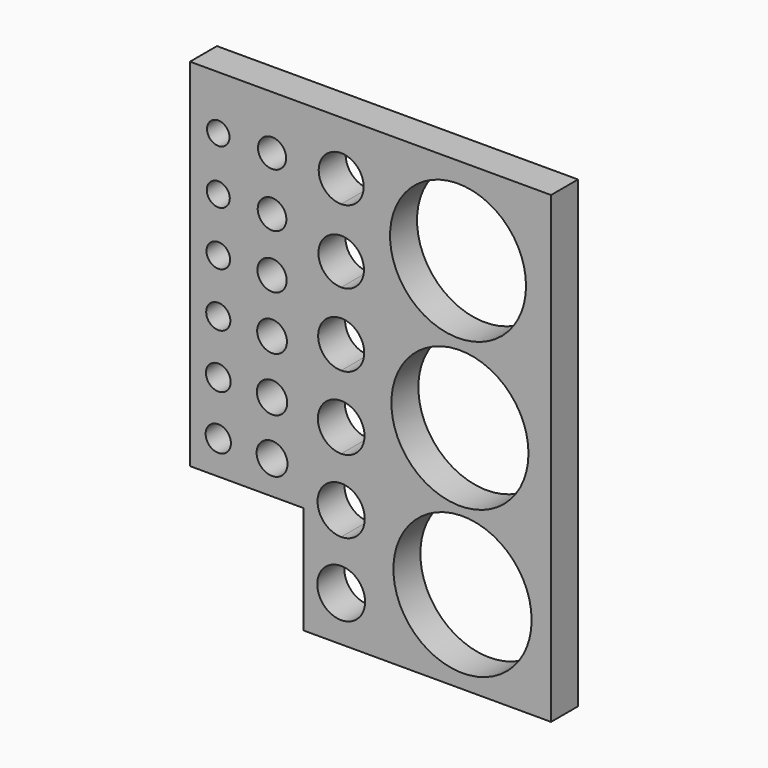
from build123d import *

# Parameters (mm, degrees)
F0_R     = 2.25
F0_R_2   = 2.75
F0_R_3   = 2.2
F0_R_4   = 2.7
F0_R_5   = 12.3
F0_R_6   = 12.2
F0_R_7   = 2.15
F0_R_8   = 2.65
F0_R_9   = 2.1
F0_R_10  = 2.6
F0_R_11  = 2.05
F0_R_12  = 2.55
F0_R_13  = 2
F0_R_14  = 2.5
F0_R_15  = 12.1
F1_DEPTH = 6


with BuildPart() as f1:
    # F0 (on Front) → F1 (new body)
    with BuildSketch(Plane.XZ):
        Polygon((4.545036, 0), (0, 0), (-54.685275, 0), (-59.722289, 0), (-59.722289, -63.376926), (-39.553031, -63.376926), (-39.553031, -82.555786), (4.545036, -82.555786), align=None)
        with BuildLine():
            ThreePointArc((-28.561165, -74.508687), (-35.816369, -77.513891), (-32.811165, -70.258687))
            ThreePointArc((-32.811165, -70.258687), (-29.805961, -71.503483), (-28.561165, -74.508687))
        make_face(mode=Mode.SUBTRACT)
        with Locations((-54.685275, -57.419539)):
            Circle(F0_R, mode=Mode.SUBTRACT)
        with Locations((-45.115352, -57.419539)):
            Circle(F0_R_2, mode=Mode.SUBTRACT)
        with Locations((-54.685275, -47.849615)):
            Circle(F0_R_3, mode=Mode.SUBTRACT)
        with Locations((-45.115352, -47.849615)):
            Circle(F0_R_4, mode=Mode.SUBTRACT)
        with BuildLine():
            ThreePointArc((-32.811165, -65.720934), (-37.011165, -61.520934), (-32.811165, -57.320934))
            ThreePointArc((-32.811165, -57.320934), (-29.841316, -58.551086), (-28.611165, -61.520934))
            ThreePointArc((-28.611165, -61.520934), (-29.841316, -64.490783), (-32.811165, -65.720934))
        make_face(mode=Mode.SUBTRACT)
        with BuildLine():
            ThreePointArc((-32.811165, -52.683181), (-36.961165, -48.533181), (-32.811165, -44.383181))
            ThreePointArc((-32.811165, -44.383181), (-29.876672, -45.598688), (-28.661165, -48.533181))
            ThreePointArc((-28.661165, -48.533181), (-29.876672, -51.467675), (-32.811165, -52.683181))
        make_face(mode=Mode.SUBTRACT)
        with Locations((-11.215762, -67.734145)):
            Circle(F0_R_5, mode=Mode.SUBTRACT)
        with Locations((-11.673733, -41.788895)):
            Circle(F0_R_6, mode=Mode.SUBTRACT)
        with Locations((-54.685275, -38.279692)):
            Circle(F0_R_7, mode=Mode.SUBTRACT)
        with Locations((-45.115352, -38.279692)):
            Circle(F0_R_8, mode=Mode.SUBTRACT)
        with Locations((-54.685275, -28.709769)):
            Circle(F0_R_9, mode=Mode.SUBTRACT)
        with Locations((-45.115352, -28.709769)):
            Circle(F0_R_10, mode=Mode.SUBTRACT)
        with BuildLine():
            ThreePointArc((-32.811165, -39.645429), (-36.911165, -35.545429), (-32.811165, -31.445429))
            ThreePointArc((-32.811165, -31.445429), (-29.912027, -32.646291), (-28.711165, -35.545429))
            ThreePointArc((-28.711165, -35.545429), (-29.912027, -38.444566), (-32.811165, -39.645429))
        make_face(mode=Mode.SUBTRACT)
        with BuildLine():
            ThreePointArc((-32.811165, -26.607676), (-36.861165, -22.557676), (-32.811165, -18.507676))
            ThreePointArc((-32.811165, -18.507676), (-29.947382, -19.693893), (-28.761165, -22.557676))
            ThreePointArc((-28.761165, -22.557676), (-29.947382, -25.421458), (-32.811165, -26.607676))
        make_face(mode=Mode.SUBTRACT)
        with Locations((-54.685275, -19.139846)):
            Circle(F0_R_11, mode=Mode.SUBTRACT)
        with Locations((-45.115352, -19.139846)):
            Circle(F0_R_12, mode=Mode.SUBTRACT)
        with Locations((-54.685275, -9.569923)):
            Circle(F0_R_13, mode=Mode.SUBTRACT)
        with Locations((-45.115352, -9.569923)):
            Circle(F0_R_14, mode=Mode.SUBTRACT)
        with BuildLine():
            ThreePointArc((-32.811165, -13.569923), (-35.639592, -6.741496), (-28.811165, -9.569923))
            ThreePointArc((-28.811165, -9.569923), (-29.982738, -12.39835), (-32.811165, -13.569923))
        make_face(mode=Mode.SUBTRACT)
        with Locations((-12.010878, -15.684631)):
            Circle(F0_R_15, mode=Mode.SUBTRACT)
    extrude(amount=F1_DEPTH)


solid = f1.part
